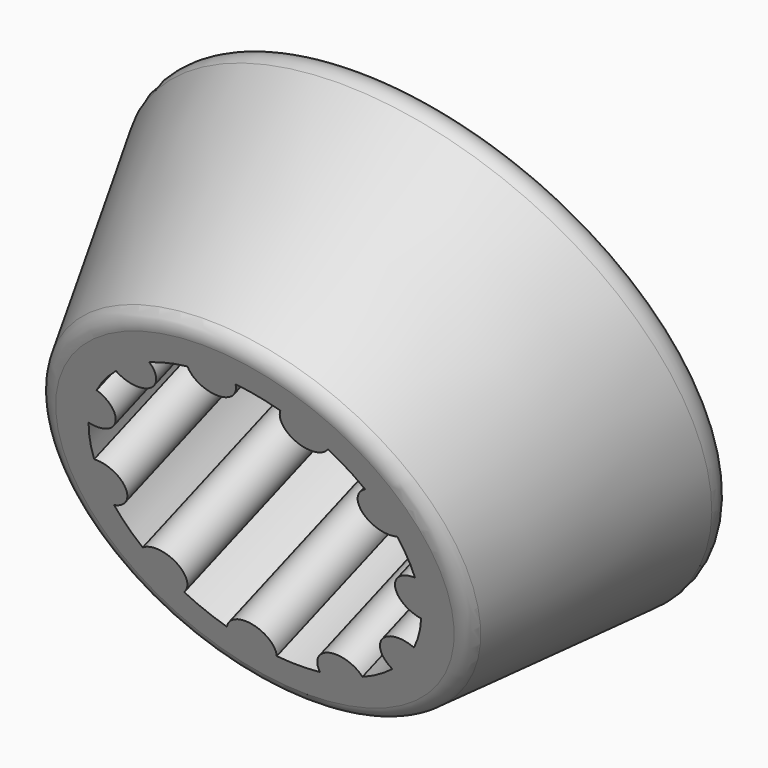
from build123d import *

# Parameters (mm, degrees)
SKETCH_R             = 4
PAD_DEPTH            = 20
CYLINDER_R           = 26.62
CYLINDER_DEPTH       = 40
CYLINDER_ROLL_ANGLE  = 90.0000000001
CUT007_ROLL_ANGLE    = -20
CONE_PLACEMENT_ANGLE = 70
FILLET007_R          = 3


with BuildPart() as clone_of_pad:
    # Sketch → Pad (new body, symmetric)
    with BuildSketch(Plane.XZ):
        with Locations((0, 26.6209914966)):
            Circle(SKETCH_R)
        with Locations((14.3923946042, 22.395003144)):
            Circle(SKETCH_R)
        with Locations((24.2153056134, 11.0587595287)):
            Circle(SKETCH_R)
        with Locations((26.3500281875, -3.7885620995)):
            Circle(SKETCH_R)
        with Locations((20.1188029925, -17.4330420298)):
            Circle(SKETCH_R)
        with Locations((7.5, -25.5426542917)):
            Circle(SKETCH_R)
        with Locations((-7.5, -25.5426542917)):
            Circle(SKETCH_R)
        with Locations((-26.3500281875, -3.7885620995)):
            Circle(SKETCH_R)
        with Locations((-24.2153056134, 11.0587595287)):
            Circle(SKETCH_R)
        with Locations((-14.3923946042, 22.395003144)):
            Circle(SKETCH_R)
        with Locations((-20.1188029925, -17.4330420298)):
            Circle(SKETCH_R)
    extrude(amount=PAD_DEPTH, both=True)


with BuildPart() as cut007:
    # Cylinder → Cylinder (new body)
    with BuildSketch(Plane.XY):
        Circle(CYLINDER_R)
    extrude(amount=CYLINDER_DEPTH)


with BuildPart() as cut007_1:
    # Cylinder roll: moved
    add(cut007.part.rotate(Axis((0, 0, 0), (1, 0, 0)), CYLINDER_ROLL_ANGLE))


with BuildPart() as cut007_2:
    # Cylinder placement: moved
    add(cut007_1.part.moved(Location((0, 20, 0))))

    # Cut007: cut Clone of Pad
    add(clone_of_pad.part, mode=Mode.SUBTRACT)


with BuildPart() as cut007_3:
    # Cut007 roll: moved
    add(cut007_2.part.rotate(Axis((0, 0, 0), (1, 0, 0)), CUT007_ROLL_ANGLE))


with BuildPart() as cut007_4:
    # Cut007 placement: moved
    add(cut007_3.part)


with BuildPart() as fillet007:
    # Cone → Cone (revolve)
    with BuildSketch(Plane.XZ):
        Polygon((0, 0), (34, 0), (48.5, 40), (0, 40), align=None)
    revolve(axis=Axis((0, 0, 0), (0, 0, 1)))


with BuildPart() as fillet007_1:
    # Cone placement: moved
    add(fillet007.part.moved(Location((0, 18.7938524157, -6.8404028665))).rotate(Axis((0, 18.7938524157, -6.8404028665), (1, 0, 0)), CONE_PLACEMENT_ANGLE))

    # Cut008: cut Cut007
    add(cut007_4.part, mode=Mode.SUBTRACT)

    # Fillet007
    fillet007_edges = [fillet007_1.edges().sort_by_distance(p)[0] for p in [
        (-48.5, -18.793852, 6.840403),
        (-34, 18.793852, -6.840403),
    ]]
    fillet(fillet007_edges, radius=FILLET007_R)


with BuildPart() as part_mirroring005:
    # Part__Mirroring005: instance of Fillet007
    add(fillet007_1.part.mirror(Plane(origin=(0, 45, 0), x_dir=(1, 0, 0), z_dir=(0, 1, 0))))


solid = part_mirroring005.part
